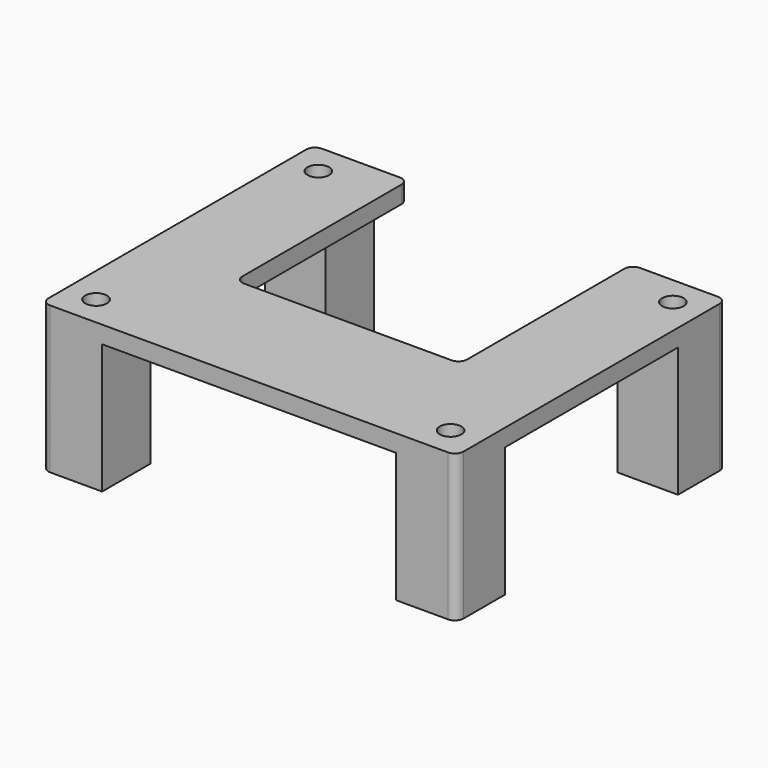
from build123d import *

# Parameters (mm, degrees)
SKETCH_R     = 1.25
PAD_DEPTH    = 2
SKETCH001_W  = 7
SKETCH001_H  = 7
SKETCH001_R  = 1.5
PAD001_DEPTH = 15
FILLET_R     = 1
FILLET001_R  = 1
FILLET002_R  = 1
FILLET003_R  = 1
FILLET004_R  = 1
FILLET005_R  = 1
FILLET006_R  = 1
FILLET007_R  = 1


with BuildPart() as part:
    # Sketch → Pad (new body)
    with BuildSketch(Plane.XY):
        Polygon((24, 19.364391), (24, -19.635609), (-24, -19.635609), (-24, 19.635609), (-13, 19.635609), (-13, -5.364391), (13, -5.364391), (13, 19.364391), align=None)
        with Locations((-20.5, 16)):
            Circle(SKETCH_R, mode=Mode.SUBTRACT)
        with Locations((20.5, -16.135609)):
            Circle(SKETCH_R, mode=Mode.SUBTRACT)
        with Locations((20.5, 16)):
            Circle(SKETCH_R, mode=Mode.SUBTRACT)
        with Locations((-20.5, -16.135609)):
            Circle(SKETCH_R, mode=Mode.SUBTRACT)
    extrude(amount=PAD_DEPTH)

    # Sketch001 → Pad001 (join)
    with BuildSketch(Plane.XY):
        with Locations((-20.5, 16.135609)):
            Rectangle(SKETCH001_W, SKETCH001_H)
        with Locations((-20.5, 16.135609)):
            Circle(SKETCH001_R, mode=Mode.SUBTRACT)
        with Locations((20.5, 15.864391)):
            Rectangle(SKETCH001_W, SKETCH001_H)
        with Locations((20.5, 15.864391)):
            Circle(SKETCH001_R, mode=Mode.SUBTRACT)
        with Locations((-20.5, -16.135609)):
            Rectangle(SKETCH001_W, SKETCH001_H)
        with Locations((-20.5, -16.135609)):
            Circle(SKETCH001_R, mode=Mode.SUBTRACT)
        with Locations((20.5, -16.135609)):
            Rectangle(SKETCH001_W, SKETCH001_H)
        with Locations((20.5, -16.135609)):
            Circle(SKETCH001_R, mode=Mode.SUBTRACT)
    extrude(amount=-PAD001_DEPTH)

    # Fillet
    fillet_edges = [part.edges().sort_by_distance(p)[0] for p in [
        (24, -19.635609, -7.5),
        (24, -19.635609, 1),
    ]]
    fillet(fillet_edges, radius=FILLET_R)

    # Fillet001
    fillet001_edges = [part.edges().sort_by_distance(p)[0] for p in [
        (24, 19.364391, 1),
        (24, 19.364391, -7.5),
    ]]
    fillet(fillet001_edges, radius=FILLET001_R)

    # Fillet002
    fillet002_edges = [part.edges().sort_by_distance(p)[0] for p in [
        (-24, 19.635609, 1),
        (-24, 19.635609, -7.5),
    ]]
    fillet(fillet002_edges, radius=FILLET002_R)

    # Fillet003
    fillet003_edges = [part.edges().sort_by_distance(p)[0] for p in [
        (-24, -19.635609, -7.5),
        (-24, -19.635609, 1),
    ]]
    fillet(fillet003_edges, radius=FILLET003_R)

    # Fillet004
    fillet004_edges = [part.edges().sort_by_distance(p)[0] for p in [
        (-13, 19.635609, 1),
    ]]
    fillet(fillet004_edges, radius=FILLET004_R)

    # Fillet005
    fillet005_edges = [part.edges().sort_by_distance(p)[0] for p in [
        (-13, -5.364391, 1),
    ]]
    fillet(fillet005_edges, radius=FILLET005_R)

    # Fillet006
    fillet006_edges = [part.edges().sort_by_distance(p)[0] for p in [
        (13, -5.364391, 1),
    ]]
    fillet(fillet006_edges, radius=FILLET006_R)

    # Fillet007
    fillet007_edges = [part.edges().sort_by_distance(p)[0] for p in [
        (13, 19.364391, 1),
    ]]
    fillet(fillet007_edges, radius=FILLET007_R)


solid = part.part
